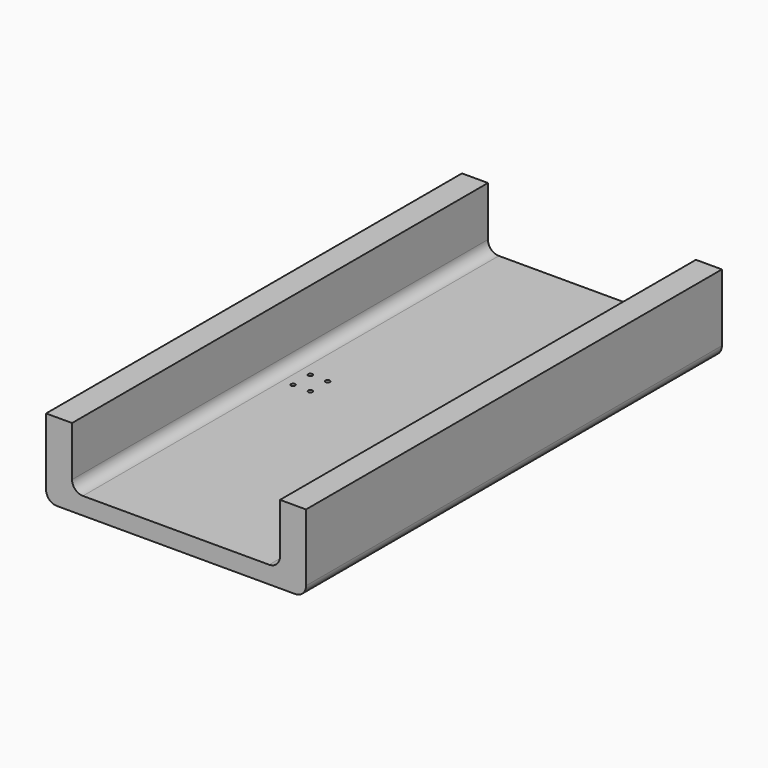
from build123d import *

# Parameters (mm, degrees)
F1_DEPTH = 3048
F2_R     = 25.4
F3_DEPTH = 203.201


with BuildPart() as f1:
    # F0 (on Front) → F1 (new body, symmetric)
    with BuildSketch(Plane.XZ):
        with BuildLine():
            Line((-1397, 0), (0, 0))
            Line((0, 0), (0, 203.2))
            Line((0, 203.2), (-1092.2, 203.2))
            ThreePointArc((-1092.2, 203.2), (-1182.002561, 240.397439), (-1219.2, 330.2))
            Line((-1219.2, 330.2), (-1219.2, 914.4))
            Line((-1219.2, 914.4), (-1524, 914.4))
            Line((-1524, 914.4), (-1524, 127))
            ThreePointArc((-1524, 127), (-1486.802561, 37.197439), (-1397, 0))
        make_face()
        with BuildLine():
            Line((0, 203.2), (0, 0))
            Line((0, 0), (1397, 0))
            ThreePointArc((1397, 0), (1486.802561, 37.197439), (1524, 127))
            Line((1524, 127), (1524, 914.4))
            Line((1524, 914.4), (1219.2, 914.4))
            Line((1219.2, 914.4), (1219.2, 330.2))
            ThreePointArc((1219.2, 330.2), (1182.002561, 240.397439), (1092.2, 203.2))
            Line((1092.2, 203.2), (0, 203.2))
        make_face()
    extrude(amount=F1_DEPTH, both=True)

    # F2 (on face) → F3 (cut, through all)
    with BuildSketch(Plane.XY.offset(203.2)):
        with Locations((-965.2, 127)):
            Circle(F2_R)
        with Locations((-762, 127)):
            Circle(F2_R)
        with Locations((-965.2, -127)):
            Circle(F2_R)
        with Locations((-762, -127)):
            Circle(F2_R)
        with Locations((762, 127)):
            Circle(F2_R)
        with Locations((965.2, 127)):
            Circle(F2_R)
        with Locations((965.2, -127)):
            Circle(F2_R)
        with Locations((762, -127)):
            Circle(F2_R)
    extrude(amount=-F3_DEPTH, mode=Mode.SUBTRACT)


solid = f1.part
